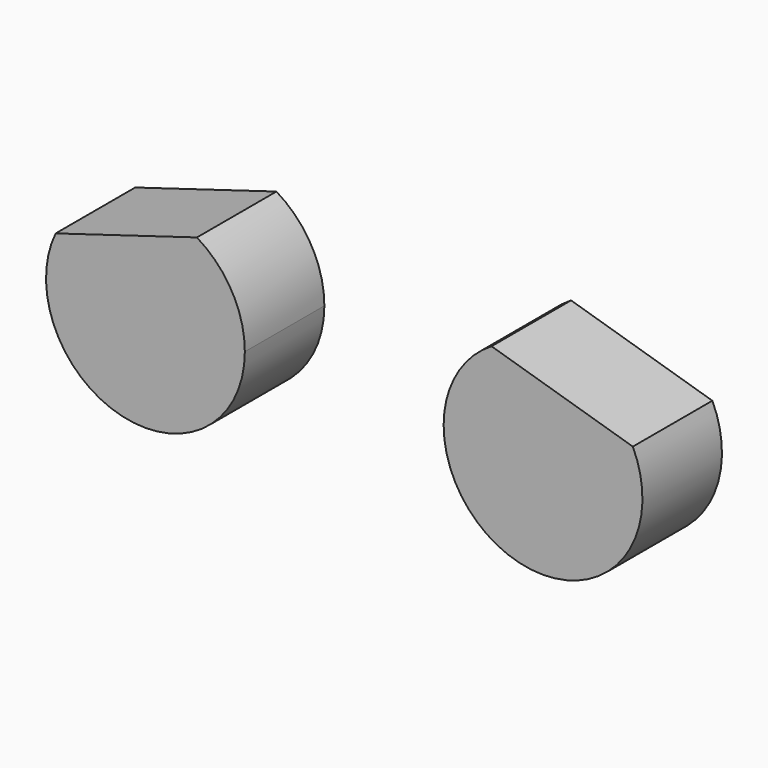
from build123d import *

# Parameters (mm, degrees)
F2_DEPTH = 5


with BuildPart() as f2:
    # F1 (on Front) → F2 (new body)
    with BuildSketch(Plane.XZ):
        with BuildLine():
            ThreePointArc((0, -5), (3.5355339059, -3.5355339059), (5, 0))
            ThreePointArc((5, 0), (4.355999592, 2.454642042), (2.5898929782, 4.2769678935))
            Line((2.5898929782, 4.2769678935), (-4.5164984828, 2.1450504552))
            ThreePointArc((-4.5164984828, 2.1450504552), (-4.2264200144, -2.6715863943), (0, -5))
        make_face()
    extrude(amount=F2_DEPTH)


with BuildPart() as f4_1:
    # F4: instance of F2
    add(f2.part.mirror(Plane.YZ.offset(10)))


solid = Compound([f2.part, f4_1.part])
